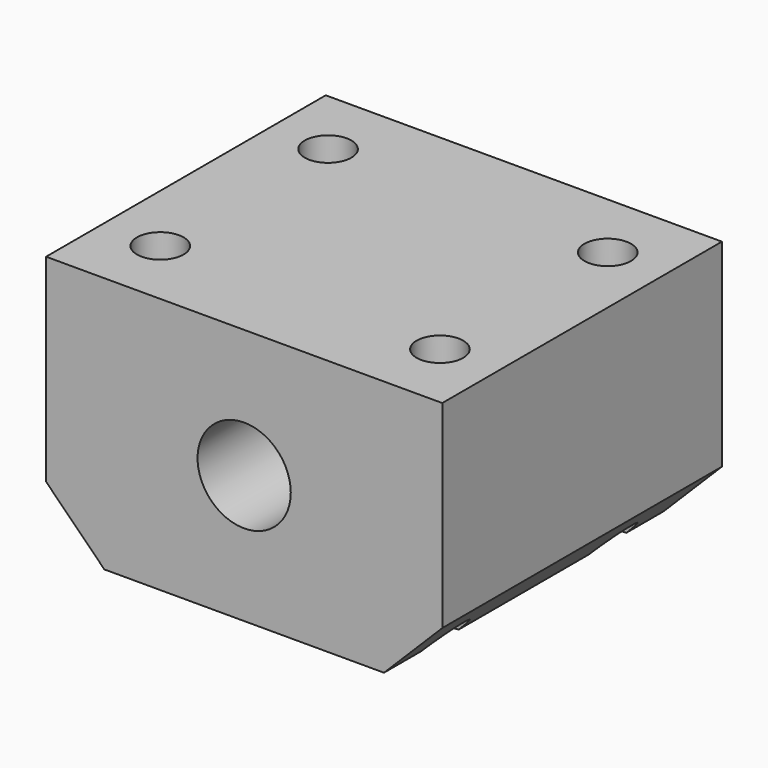
from build123d import *

# Parameters (mm, degrees)
SKETCH_W     = 34
SKETCH_H     = 22
SKETCH_R     = 4
PAD_DEPTH    = 30
CHAMFER_SIZE = 5
SKETCH001_R  = 2
POCKET_DEPTH = 22


with BuildPart() as part:
    # Sketch → Pad (new body)
    with BuildSketch(Plane.XZ):
        with Locations((17, 11)):
            Rectangle(SKETCH_W, SKETCH_H)
        with Locations((17, 11)):
            Circle(SKETCH_R, mode=Mode.SUBTRACT)
    extrude(amount=PAD_DEPTH)

    # Chamfer
    chamfer_edges = [part.edges().sort_by_distance(p)[0] for p in [
        (0, -15, 0),
        (34, -15, 0),
    ]]
    chamfer(chamfer_edges, length=CHAMFER_SIZE)

    # Sketch001 (on Face8 of Chamfer) → Pocket (cut)
    with BuildSketch(Plane(origin=(0, 0, 22), x_dir=(-1, 0, 0), z_dir=(0, 0, 1))):
        with Locations((-29, 24)):
            Circle(SKETCH001_R)
        with Locations((-5, 24)):
            Circle(SKETCH001_R)
        with Locations((-29, 6)):
            Circle(SKETCH001_R)
        with Locations((-5, 6)):
            Circle(SKETCH001_R)
    extrude(amount=-POCKET_DEPTH, mode=Mode.SUBTRACT)


solid = part.part
